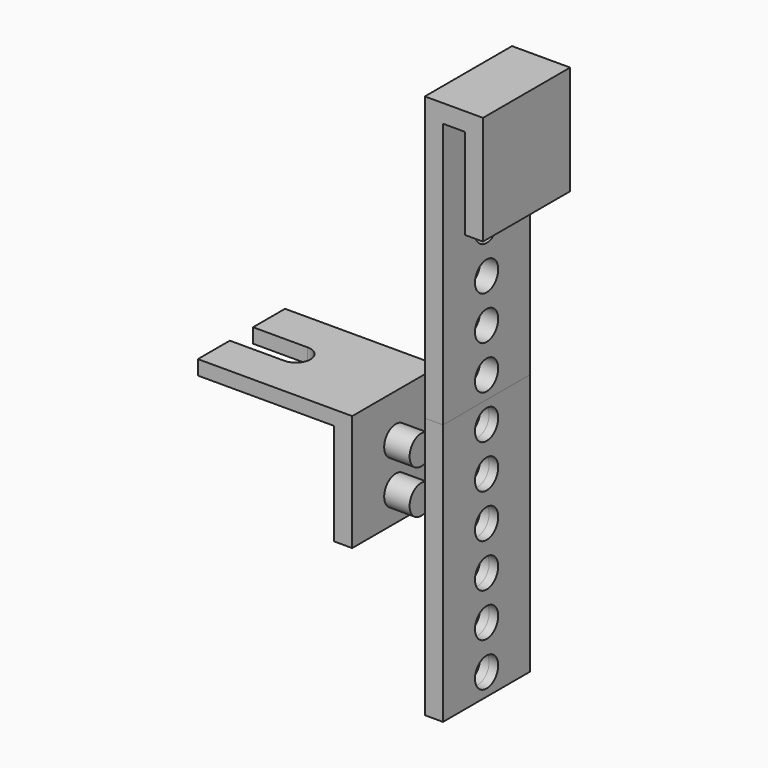
from build123d import *

# Parameters (mm, degrees)
F0_R           = 4
F1_DEPTH       = 2.5
F1_DEPTH_BACK  = 2.5
F2_DEPTH       = 2.5
F2_DEPTH_BACK  = 2.5
F4_DEPTH       = 15
F4_DEPTH_BACK  = 15
F6_W           = 30
F6_H           = 28
F6_R           = 4
F6_H_2         = 4
F7_DEPTH       = 2.5
F7_DEPTH_BACK  = 2.5
F8_DEPTH       = 40
F10_DEPTH      = 5
F10_DEPTH_BACK = 5
F11_W          = 12
F11_H          = 24
F12_DEPTH      = 3
F11_R          = 4
F13_DEPTH      = 12
F13_DEPTH_BACK = 3
F14_DEPTH      = 5


with BuildPart() as f1:
    # F0 (on Right) → F1 (new body, two sides)
    with BuildSketch(Plane.YZ) as f1_sk:
        Polygon((15, 66.8671875), (-15, 66.8671875), (-15, -11.1328125), (15, -11.1328125), align=None)
        with Locations((0, -5.1328125)):
            Circle(F0_R, mode=Mode.SUBTRACT)
        with Locations((0, 6.8671875)):
            Circle(F0_R, mode=Mode.SUBTRACT)
        with Locations((0, 18.8671875)):
            Circle(F0_R, mode=Mode.SUBTRACT)
        with Locations((0, 30.8671875)):
            Circle(F0_R, mode=Mode.SUBTRACT)
        with Locations((0, 42.8671875)):
            Circle(F0_R, mode=Mode.SUBTRACT)
        with Locations((0, 54.8671875)):
            Circle(F0_R, mode=Mode.SUBTRACT)
    extrude(amount=F1_DEPTH)
    extrude(f1_sk.sketch, amount=-F1_DEPTH_BACK)

    # F3 (on Front) → F4 (join, two sides)
    with BuildSketch(Plane.XZ) as f4_sk:
        Polygon((2.5, 66.8671875), (-2.5, 66.8671875), (-2.5, 61.8671875), (8.5, 61.8671875), (8.5, 36.8671875), (13.5, 36.8671875), (13.5, 61.8671875), (13.5, 66.8671875), (8.5, 66.8671875), align=None)
    extrude(amount=F4_DEPTH)
    extrude(f4_sk.sketch, amount=-F4_DEPTH_BACK)

    # F9 (on face) → F14 (cut)
    with BuildSketch(Plane.XY.offset(-17.1328125)):
        with BuildLine():
            ThreePointArc((-50, -4), (-47.1715728753, -2.8284271247), (-46, 0))
            ThreePointArc((-46, 0), (-47.1715728753, 2.8284271247), (-50, 4))
            ThreePointArc((-50, 4), (-54, 0), (-50, -4))
        make_face()
        with BuildLine():
            ThreePointArc((-50, -4), (-54, 0), (-50, 4))
            Line((-50, 4), (-65, 4))
            Line((-65, 4), (-65, -4))
            Line((-65, -4), (-50, -4))
        make_face()
    extrude(amount=-F14_DEPTH, mode=Mode.SUBTRACT)


with BuildPart() as f2:
    # F0 (on Right) → F2 (new body, two sides)
    with BuildSketch(Plane.YZ) as f2_sk:
        Polygon((15, -11.1328125), (-15, -11.1328125), (-15, -83.1328125), (15, -83.1328125), align=None)
        with Locations((0, -77.1328125)):
            Circle(F0_R, mode=Mode.SUBTRACT)
        with Locations((0, -65.1328125)):
            Circle(F0_R, mode=Mode.SUBTRACT)
        with Locations((0, -53.1328125)):
            Circle(F0_R, mode=Mode.SUBTRACT)
        with Locations((0, -41.1328125)):
            Circle(F0_R, mode=Mode.SUBTRACT)
        with Locations((0, -29.1328125)):
            Circle(F0_R, mode=Mode.SUBTRACT)
        with Locations((0, -17.1328125)):
            Circle(F0_R, mode=Mode.SUBTRACT)
    extrude(amount=F2_DEPTH)
    extrude(f2_sk.sketch, amount=-F2_DEPTH_BACK)


with BuildPart() as f7:
    # F6 (on offset) → F7 (new body, two sides)
    with BuildSketch(Plane.YZ.offset(-25)) as f7_sk:
        with Locations((0, -35.1328125)):
            Rectangle(F6_W, F6_H)
        with Locations((0, -41.1328125)):
            Circle(F6_R, mode=Mode.SUBTRACT)
        with Locations((0, -29.1328125)):
            Circle(F6_R, mode=Mode.SUBTRACT)
        with Locations((0, -19.1328125)):
            Rectangle(F6_W, F6_H_2)
    extrude(amount=F7_DEPTH)
    extrude(f7_sk.sketch, amount=-F7_DEPTH_BACK)

    # F6 (on offset) → F8 (join)
    with BuildSketch(Plane.YZ.offset(-25)):
        with Locations((0, -19.1328125)):
            Rectangle(F6_W, F6_H_2)
    extrude(amount=-F8_DEPTH)

    # F9 (on face) → F10 (cut, two sides)
    with BuildSketch(Plane.XY.offset(-17.1328125)) as f10_sk:
        with BuildLine():
            ThreePointArc((-50, -4), (-47.1715728753, -2.8284271247), (-46, 0))
            ThreePointArc((-46, 0), (-47.1715728753, 2.8284271247), (-50, 4))
            ThreePointArc((-50, 4), (-54, 0), (-50, -4))
        make_face()
        with BuildLine():
            ThreePointArc((-50, -4), (-54, 0), (-50, 4))
            Line((-50, 4), (-65, 4))
            Line((-65, 4), (-65, -4))
            Line((-65, -4), (-50, -4))
        make_face()
    extrude(amount=F10_DEPTH, mode=Mode.SUBTRACT)
    extrude(f10_sk.sketch, amount=-F10_DEPTH_BACK, mode=Mode.SUBTRACT)


with BuildPart() as f12:
    # F11 (on face) → F12 (new body)
    with BuildSketch(Plane(origin=(-27.5, 0, 0), x_dir=(0, -1, 0), z_dir=(-1, 0, 0))):
        with Locations((0, -35.1328125)):
            Rectangle(F11_W, F11_H)
    extrude(amount=F12_DEPTH)

    # F11 (on face) → F13 (join, two sides)
    with BuildSketch(Plane(origin=(-27.5, 0, 0), x_dir=(0, -1, 0), z_dir=(-1, 0, 0))) as f13_sk:
        with Locations((0, -29.1328125)):
            Circle(F11_R)
        with Locations((0, -41.1328125)):
            Circle(F11_R)
    extrude(amount=-F13_DEPTH)
    extrude(f13_sk.sketch, amount=F13_DEPTH_BACK)


solid = Compound([f1.part, f2.part, f7.part, f12.part])
